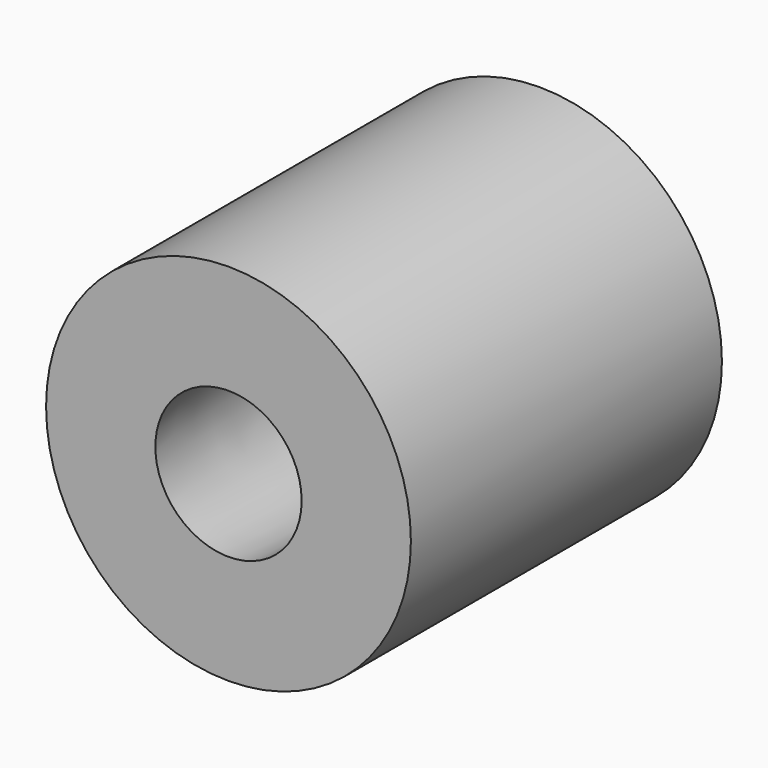
from build123d import *

# Parameters (mm, degrees)
F0_R     = 152.2274457146
F1_DEPTH = 324.4576752186
F2_R     = 61.0558732935
F3_DEPTH = 127
F3_TAPER = -3


with BuildPart() as f1:
    # F0 (on Front) → F1 (new body)
    with BuildSketch(Plane.XZ):
        Circle(F0_R)
    extrude(amount=F1_DEPTH)

    # F2 (on face) → F3 (cut)
    with BuildSketch(Plane.XZ.offset(324.4576752186)):
        Circle(F2_R)
    extrude(amount=-F3_DEPTH, taper=F3_TAPER, mode=Mode.SUBTRACT)


solid = f1.part
